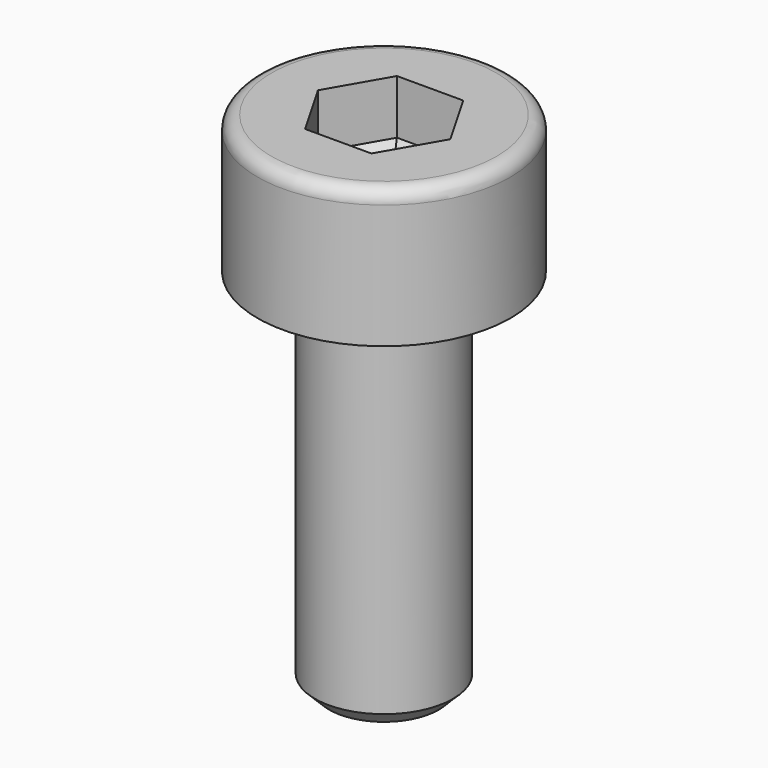
from build123d import *

# Parameters (mm, degrees)
SKETCH_R        = 1.5
PAD_DEPTH       = 8
SKETCH001_R     = 2.75
PAD001_DEPTH    = 3
FILLET_R        = 0.1
FILLET001_R     = 0.3
CHAMFER_SIZE    = 0.31
POCKET_DEPTH    = 2.42
CHAMFER001_SIZE = 1.24


with BuildPart() as part:
    # Sketch → Pad (new body)
    with BuildSketch(Plane.XY):
        Circle(SKETCH_R)
    extrude(amount=PAD_DEPTH)

    # Sketch001 → Pad001 (new body)
    with BuildSketch(Plane.XY.offset(8)):
        Circle(SKETCH001_R)
    extrude(amount=PAD001_DEPTH)

    # Fillet
    fillet_edges = [part.edges().sort_by_distance(p)[0] for p in [
        (-1.5, 0, 8),
    ]]
    fillet(fillet_edges, radius=FILLET_R)

    # Fillet001
    fillet001_edges = [part.edges().sort_by_distance(p)[0] for p in [
        (-2.75, 0, 11),
    ]]
    fillet(fillet001_edges, radius=FILLET001_R)

    # Chamfer
    chamfer_edges = [part.edges().sort_by_distance(p)[0] for p in [
        (-1.5, 0, 0),
    ]]
    chamfer(chamfer_edges, length=CHAMFER_SIZE)

    # Sketch002 → Pocket (cut)
    with BuildSketch(Plane.XY.offset(11)):
        Polygon((-0.716624, 1.247077), (0.723376, 1.247077), (1.443376, 0), (0.723376, -1.247077), (-0.716624, -1.247077), (-1.436624, 0), align=None)
    extrude(amount=-POCKET_DEPTH, mode=Mode.SUBTRACT)

    # Chamfer001
    chamfer001_edges = [part.edges().sort_by_distance(p)[0] for p in [
        (0.003376, 1.247077, 8.58),
        (1.083376, 0.623538, 8.58),
        (1.083376, -0.623538, 8.58),
        (0.003376, -1.247077, 8.58),
        (-1.076624, -0.623538, 8.58),
        (-1.076624, 0.623538, 8.58),
    ]]
    chamfer(chamfer001_edges, length=CHAMFER001_SIZE)


solid = part.part
